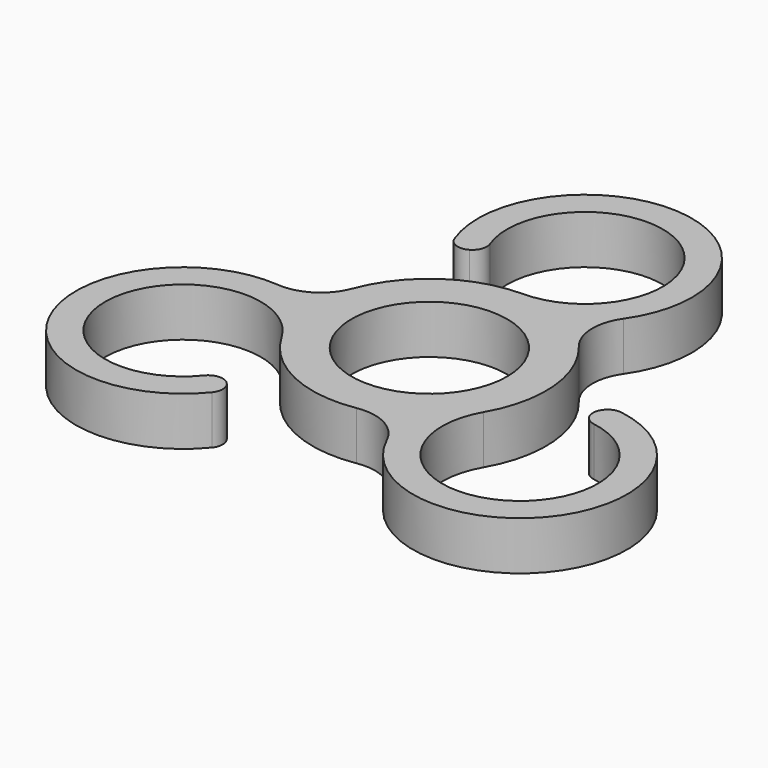
from build123d import *

# Parameters (mm, degrees)
F0_R     = 8
F1_DEPTH = 5


with BuildPart() as f1:
    # F0 (on Top) → F1 (new body)
    with BuildSketch(Plane.XY):
        with BuildLine():
            ThreePointArc((-7.472874, 17.144103), (4.536123, 26.589658), (0, 12))
            ThreePointArc((0, 12), (-6.844348, 9.856719), (-11.243802, 4.192483))
            ThreePointArc((-11.243802, 4.192483), (-13.258407, 1.712126), (-16.363653, 0.958304))
            ThreePointArc((-16.363653, 0.958304), (-27.448872, -14.291414), (-8.782148, -16.935157))
            ThreePointArc((-8.782148, -16.935157), (-8.471386, -15.717191), (-9.19647, -14.690416))
            ThreePointArc((-9.19647, -14.690416), (-10.218732, -14.51437), (-11.110792, -15.043751))
            ThreePointArc((-11.110792, -15.043751), (-25.295381, -9.366431), (-10.392305, -6))
            ThreePointArc((-10.392305, -6), (-5.113995, -10.855739), (1.991104, -11.83366))
            ThreePointArc((1.991104, -11.83366), (5.146458, -12.33818), (7.351911, -14.650492))
            ThreePointArc((7.351911, -14.650492), (26.101164, -16.625714), (19.05735, 0.862015))
            ThreePointArc((19.05735, 0.862015), (17.84718, 0.52216), (17.320508, -0.619168))
            ThreePointArc((17.320508, -0.619168), (17.679179, -1.592497), (18.583666, -2.100352))
            ThreePointArc((18.583666, -2.100352), (20.759257, -17.223227), (10.392305, -6))
            ThreePointArc((10.392305, -6), (11.958343, 0.99902), (9.252698, 7.641176))
            ThreePointArc((9.252698, 7.641176), (8.111948, 10.626054), (9.011742, 13.692188))
            ThreePointArc((9.011742, 13.692188), (1.347709, 30.917128), (-10.275202, 16.073142))
            ThreePointArc((-10.275202, 16.073142), (-9.375794, 15.195031), (-8.124038, 15.309584))
            ThreePointArc((-8.124038, 15.309584), (-7.460447, 16.106867), (-7.472874, 17.144103))
        make_face()
        Circle(F0_R, mode=Mode.SUBTRACT)
    extrude(amount=F1_DEPTH)


solid = f1.part
